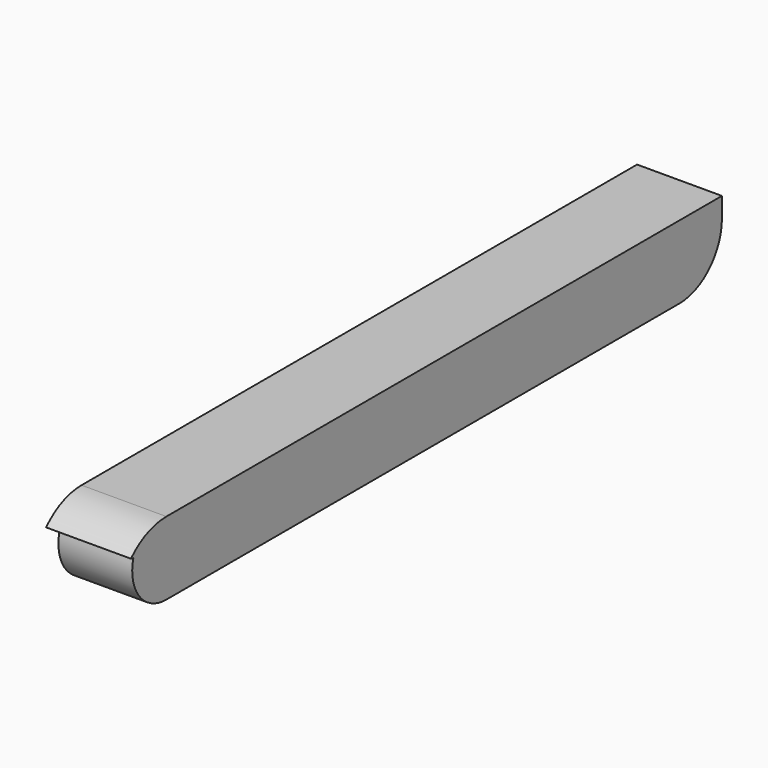
from build123d import *

# Parameters (mm, degrees)
F0_W     = 42.3045453848
F0_H     = 2.0955
F1_DEPTH = 5.842
F0_H_2   = 2.9395276724
F2_DEPTH = 5.08


with BuildPart() as f1:
    # F0 (on Right) → F1 (new body)
    with BuildSketch(Plane.YZ):
        Polygon((19.4500260153, 2.0818525415), (14.4484183737, 2.0818525415), (14.4484183737, -0.0136474585), (19.953361936, 0.7142089649), (19.953361936, 2.0818525415), align=None)
        with Locations((-6.7038543186, 1.0341025415)):
            Rectangle(F0_W, F0_H)
        with BuildLine():
            Line((-27.856127011, -0.0136474585), (-27.856127011, 2.0818525415))
            ThreePointArc((-27.856127011, 2.0818525415), (-29.51683868, 1.7387763651), (-30.9056579084, 0.7657164176))
            Line((-30.9056579084, 0.7657164176), (-30.7041171732, 0.7142089649))
            Line((-30.7041171732, 0.7142089649), (-27.856127011, -0.0136474585))
        make_face()
    extrude(amount=-F1_DEPTH)

    # F0 (on Right) → F2 (join)
    with BuildSketch(Plane.YZ):
        with BuildLine():
            Line((-27.856127011, -2.953175131), (-27.856127011, -0.0136474585))
            Line((-27.856127011, -0.0136474585), (-30.7041171732, 0.7142089649))
            ThreePointArc((-30.7041171732, 0.7142089649), (-30.1778049641, -1.816599044), (-27.856127011, -2.953175131))
        make_face()
        with Locations((-6.7038543186, -1.4834112948)):
            Rectangle(F0_W, F0_H_2)
        with BuildLine():
            Line((19.953361936, 0.7142089649), (14.4484183737, -0.0136474585))
            Line((14.4484183737, -0.0136474585), (14.4484183737, -2.953175131))
            Line((14.4484183737, -2.953175131), (16.2859778402, -2.953175131))
            ThreePointArc((16.2859778402, -2.953175131), (18.8792100035, -1.8790231985), (19.953361936, 0.7142089649))
        make_face()
    extrude(amount=-F2_DEPTH)


solid = f1.part
